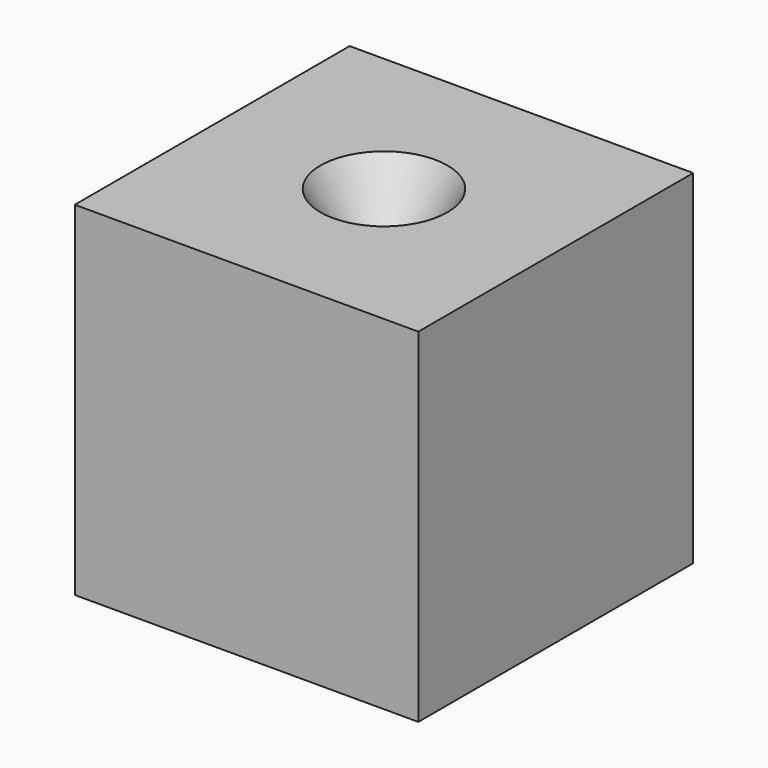
from build123d import *

# Parameters (mm, degrees)
SKETCH_W        = 23
SKETCH_H        = 23
PAD_DEPTH       = 23
SKETCH001_R     = 1.5
POCKET_DEPTH    = 23.001
CHAMFER_1_ANGLE = 60
CHAMFER_1_SIZE  = 2.75
CHAMFER_2_ANGLE = 60
CHAMFER_2_SIZE  = 2.75
FILLET_R        = 4


with BuildPart() as part:
    # Sketch → Pad (new body)
    with BuildSketch(Plane.XY):
        Rectangle(SKETCH_W, SKETCH_H)
    extrude(amount=PAD_DEPTH)

    # Sketch001 (on Face6 of Pad) → Pocket (cut, through all)
    with BuildSketch(Plane.XY.offset(23)):
        Circle(SKETCH001_R)
    extrude(amount=-POCKET_DEPTH, mode=Mode.SUBTRACT)

    # Chamfer 1
    chamfer_1_edges = [part.edges().sort_by_distance(p)[0] for p in [
        (-1.5, 0, 23),
    ]]
    chamfer_1_side = part.faces().sort_by_distance((-11.174731, 0, 23))[0]
    chamfer(chamfer_1_edges, length=CHAMFER_1_SIZE, angle=CHAMFER_1_ANGLE, reference=chamfer_1_side)

    # Chamfer 2
    chamfer_2_edges = [part.edges().sort_by_distance(p)[0] for p in [
        (-1.5, 0, 0),
    ]]
    chamfer_2_side = part.faces().sort_by_distance((-11.174731, 0, 0))[0]
    chamfer(chamfer_2_edges, length=CHAMFER_2_SIZE, angle=CHAMFER_2_ANGLE, reference=chamfer_2_side)

    # Fillet
    fillet_edges = [part.edges().sort_by_distance(p)[0] for p in [
        (-1.5, 0, 4.76314),
        (-1.5, 0, 18.23686),
    ]]
    fillet(fillet_edges, radius=FILLET_R)


solid = part.part
